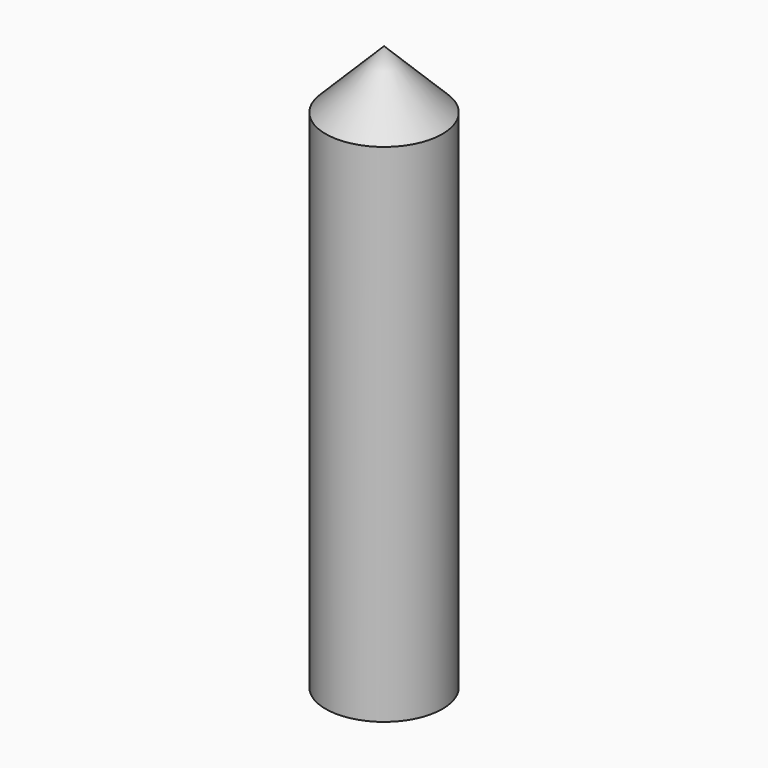
from build123d import *

# Parameters (mm, degrees)
F2_DEPTH = 99.06
F4_D     = 9.92124
F4_DEPTH = 41.91
F4_TIP   = 2.980641204


with BuildPart() as f1:
    # F0 (on Front) → F1 (revolve)
    with BuildSketch(Plane.XZ):
        Polygon((0, 11.43), (0, 0), (11.43, 0), align=None)
    revolve(axis=Axis((0, 0, 5.715), (0, 0, 1)))

    # F2 (add): a face of the model
    f2_faces = [f1.faces().sort_by_distance(p)[0] for p in [
        (0, 0, 0),
    ]]
    extrude(f2_faces, amount=F2_DEPTH)

    # F4
    with Locations(Plane(origin=(0, 0, -99.06), x_dir=(1, 0, 0), z_dir=(0, 0, -1))):
        with Locations((0, 0)):
            Hole(F4_D / 2, depth=F4_DEPTH)
            with Locations((0, 0, -(F4_DEPTH + F4_TIP / 2))):  # 118° drill point
                Cone(0, F4_D / 2, F4_TIP, mode=Mode.SUBTRACT)


solid = f1.part
